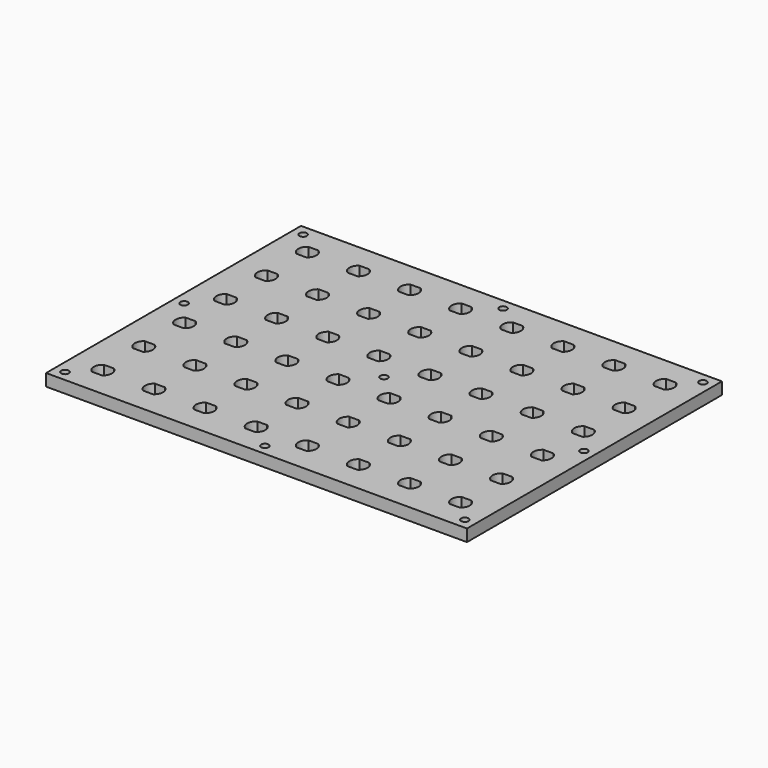
from build123d import *

# Parameters (mm, degrees)
F0_W     = 280
F0_H     = 212
F0_R     = 2.5
F1_DEPTH = 8


with BuildPart() as f1:
    # F0 (on Top) → F1 (new body)
    with BuildSketch(Plane.XY):
        Rectangle(F0_W, F0_H)
        with Locations((-133, -99)):
            Circle(F0_R, mode=Mode.SUBTRACT)
        with BuildLine():
            ThreePointArc((-122.316625, -90), (-125, -85), (-122.316625, -80))
            Line((-122.316625, -80), (-115.683375, -80))
            ThreePointArc((-115.683375, -80), (-113, -85), (-115.683375, -90))
            Line((-115.683375, -90), (-122.316625, -90))
        make_face(mode=Mode.SUBTRACT)
        with BuildLine():
            ThreePointArc((-88.316625, -90), (-91, -85), (-88.316625, -80))
            Line((-88.316625, -80), (-81.683375, -80))
            ThreePointArc((-81.683375, -80), (-79, -85), (-81.683375, -90))
            Line((-81.683375, -90), (-88.316625, -90))
        make_face(mode=Mode.SUBTRACT)
        with BuildLine():
            ThreePointArc((-54.316625, -90), (-57, -85), (-54.316625, -80))
            Line((-54.316625, -80), (-47.683375, -80))
            ThreePointArc((-47.683375, -80), (-45, -85), (-47.683375, -90))
            Line((-47.683375, -90), (-54.316625, -90))
        make_face(mode=Mode.SUBTRACT)
        with BuildLine():
            ThreePointArc((-20.316625, -90), (-23, -85), (-20.316625, -80))
            Line((-20.316625, -80), (-13.683375, -80))
            ThreePointArc((-13.683375, -80), (-11, -85), (-13.683375, -90))
            Line((-13.683375, -90), (-20.316625, -90))
        make_face(mode=Mode.SUBTRACT)
        with BuildLine():
            ThreePointArc((-122.316625, -56), (-125, -51), (-122.316625, -46))
            Line((-122.316625, -46), (-115.683375, -46))
            ThreePointArc((-115.683375, -46), (-113, -51), (-115.683375, -56))
            Line((-115.683375, -56), (-122.316625, -56))
        make_face(mode=Mode.SUBTRACT)
        with BuildLine():
            ThreePointArc((-88.316625, -56), (-91, -51), (-88.316625, -46))
            Line((-88.316625, -46), (-81.683375, -46))
            ThreePointArc((-81.683375, -46), (-79, -51), (-81.683375, -56))
            Line((-81.683375, -56), (-88.316625, -56))
        make_face(mode=Mode.SUBTRACT)
        with BuildLine():
            ThreePointArc((-122.316625, -22), (-125, -17), (-122.316625, -12))
            Line((-122.316625, -12), (-115.683375, -12))
            ThreePointArc((-115.683375, -12), (-113, -17), (-115.683375, -22))
            Line((-115.683375, -22), (-122.316625, -22))
        make_face(mode=Mode.SUBTRACT)
        with BuildLine():
            ThreePointArc((-88.316625, -22), (-91, -17), (-88.316625, -12))
            Line((-88.316625, -12), (-81.683375, -12))
            ThreePointArc((-81.683375, -12), (-79, -17), (-81.683375, -22))
            Line((-81.683375, -22), (-88.316625, -22))
        make_face(mode=Mode.SUBTRACT)
        with BuildLine():
            ThreePointArc((-54.316625, -56), (-57, -51), (-54.316625, -46))
            Line((-54.316625, -46), (-47.683375, -46))
            ThreePointArc((-47.683375, -46), (-45, -51), (-47.683375, -56))
            Line((-47.683375, -56), (-54.316625, -56))
        make_face(mode=Mode.SUBTRACT)
        with BuildLine():
            ThreePointArc((-20.316625, -56), (-23, -51), (-20.316625, -46))
            Line((-20.316625, -46), (-13.683375, -46))
            ThreePointArc((-13.683375, -46), (-11, -51), (-13.683375, -56))
            Line((-13.683375, -56), (-20.316625, -56))
        make_face(mode=Mode.SUBTRACT)
        with BuildLine():
            ThreePointArc((-54.316625, -22), (-57, -17), (-54.316625, -12))
            Line((-54.316625, -12), (-47.683375, -12))
            ThreePointArc((-47.683375, -12), (-45, -17), (-47.683375, -22))
            Line((-47.683375, -22), (-54.316625, -22))
        make_face(mode=Mode.SUBTRACT)
        with BuildLine():
            ThreePointArc((-20.316625, -22), (-23, -17), (-20.316625, -12))
            Line((-20.316625, -12), (-13.683375, -12))
            ThreePointArc((-13.683375, -12), (-11, -17), (-13.683375, -22))
            Line((-13.683375, -22), (-20.316625, -22))
        make_face(mode=Mode.SUBTRACT)
        with Locations((0, -99)):
            Circle(F0_R, mode=Mode.SUBTRACT)
        with BuildLine():
            ThreePointArc((13.683375, -90), (11, -85), (13.683375, -80))
            Line((13.683375, -80), (20.316625, -80))
            ThreePointArc((20.316625, -80), (23, -85), (20.316625, -90))
            Line((20.316625, -90), (13.683375, -90))
        make_face(mode=Mode.SUBTRACT)
        with BuildLine():
            ThreePointArc((47.683375, -90), (45, -85), (47.683375, -80))
            Line((47.683375, -80), (54.316625, -80))
            ThreePointArc((54.316625, -80), (57, -85), (54.316625, -90))
            Line((54.316625, -90), (47.683375, -90))
        make_face(mode=Mode.SUBTRACT)
        with BuildLine():
            ThreePointArc((81.683375, -90), (79, -85), (81.683375, -80))
            Line((81.683375, -80), (88.316625, -80))
            ThreePointArc((88.316625, -80), (91, -85), (88.316625, -90))
            Line((88.316625, -90), (81.683375, -90))
        make_face(mode=Mode.SUBTRACT)
        with Locations((133, -99)):
            Circle(F0_R, mode=Mode.SUBTRACT)
        with BuildLine():
            ThreePointArc((115.683375, -90), (113, -85), (115.683375, -80))
            Line((115.683375, -80), (122.316625, -80))
            ThreePointArc((122.316625, -80), (125, -85), (122.316625, -90))
            Line((122.316625, -90), (115.683375, -90))
        make_face(mode=Mode.SUBTRACT)
        with BuildLine():
            ThreePointArc((13.683375, -56), (11, -51), (13.683375, -46))
            Line((13.683375, -46), (20.316625, -46))
            ThreePointArc((20.316625, -46), (23, -51), (20.316625, -56))
            Line((20.316625, -56), (13.683375, -56))
        make_face(mode=Mode.SUBTRACT)
        with BuildLine():
            ThreePointArc((47.683375, -56), (45, -51), (47.683375, -46))
            Line((47.683375, -46), (54.316625, -46))
            ThreePointArc((54.316625, -46), (57, -51), (54.316625, -56))
            Line((54.316625, -56), (47.683375, -56))
        make_face(mode=Mode.SUBTRACT)
        with BuildLine():
            ThreePointArc((13.683375, -22), (11, -17), (13.683375, -12))
            Line((13.683375, -12), (20.316625, -12))
            ThreePointArc((20.316625, -12), (23, -17), (20.316625, -22))
            Line((20.316625, -22), (13.683375, -22))
        make_face(mode=Mode.SUBTRACT)
        with BuildLine():
            ThreePointArc((47.683375, -22), (45, -17), (47.683375, -12))
            Line((47.683375, -12), (54.316625, -12))
            ThreePointArc((54.316625, -12), (57, -17), (54.316625, -22))
            Line((54.316625, -22), (47.683375, -22))
        make_face(mode=Mode.SUBTRACT)
        with BuildLine():
            ThreePointArc((81.683375, -56), (79, -51), (81.683375, -46))
            Line((81.683375, -46), (88.316625, -46))
            ThreePointArc((88.316625, -46), (91, -51), (88.316625, -56))
            Line((88.316625, -56), (81.683375, -56))
        make_face(mode=Mode.SUBTRACT)
        with BuildLine():
            ThreePointArc((115.683375, -56), (113, -51), (115.683375, -46))
            Line((115.683375, -46), (122.316625, -46))
            ThreePointArc((122.316625, -46), (125, -51), (122.316625, -56))
            Line((122.316625, -56), (115.683375, -56))
        make_face(mode=Mode.SUBTRACT)
        with BuildLine():
            ThreePointArc((81.683375, -22), (79, -17), (81.683375, -12))
            Line((81.683375, -12), (88.316625, -12))
            ThreePointArc((88.316625, -12), (91, -17), (88.316625, -22))
            Line((88.316625, -22), (81.683375, -22))
        make_face(mode=Mode.SUBTRACT)
        with BuildLine():
            ThreePointArc((115.683375, -22), (113, -17), (115.683375, -12))
            Line((115.683375, -12), (122.316625, -12))
            ThreePointArc((122.316625, -12), (125, -17), (122.316625, -22))
            Line((122.316625, -22), (115.683375, -22))
        make_face(mode=Mode.SUBTRACT)
        with Locations((-133, 0)):
            Circle(F0_R, mode=Mode.SUBTRACT)
        with BuildLine():
            ThreePointArc((-122.316625, 12), (-125, 17), (-122.316625, 22))
            Line((-122.316625, 22), (-115.683375, 22))
            ThreePointArc((-115.683375, 22), (-113, 17), (-115.683375, 12))
            Line((-115.683375, 12), (-122.316625, 12))
        make_face(mode=Mode.SUBTRACT)
        with BuildLine():
            ThreePointArc((-88.316625, 12), (-91, 17), (-88.316625, 22))
            Line((-88.316625, 22), (-81.683375, 22))
            ThreePointArc((-81.683375, 22), (-79, 17), (-81.683375, 12))
            Line((-81.683375, 12), (-88.316625, 12))
        make_face(mode=Mode.SUBTRACT)
        with BuildLine():
            ThreePointArc((-122.316625, 46), (-125, 51), (-122.316625, 56))
            Line((-122.316625, 56), (-115.683375, 56))
            ThreePointArc((-115.683375, 56), (-113, 51), (-115.683375, 46))
            Line((-115.683375, 46), (-122.316625, 46))
        make_face(mode=Mode.SUBTRACT)
        with BuildLine():
            ThreePointArc((-88.316625, 46), (-91, 51), (-88.316625, 56))
            Line((-88.316625, 56), (-81.683375, 56))
            ThreePointArc((-81.683375, 56), (-79, 51), (-81.683375, 46))
            Line((-81.683375, 46), (-88.316625, 46))
        make_face(mode=Mode.SUBTRACT)
        with BuildLine():
            ThreePointArc((-54.316625, 12), (-57, 17), (-54.316625, 22))
            Line((-54.316625, 22), (-47.683375, 22))
            ThreePointArc((-47.683375, 22), (-45, 17), (-47.683375, 12))
            Line((-47.683375, 12), (-54.316625, 12))
        make_face(mode=Mode.SUBTRACT)
        with BuildLine():
            ThreePointArc((-20.316625, 12), (-23, 17), (-20.316625, 22))
            Line((-20.316625, 22), (-13.683375, 22))
            ThreePointArc((-13.683375, 22), (-11, 17), (-13.683375, 12))
            Line((-13.683375, 12), (-20.316625, 12))
        make_face(mode=Mode.SUBTRACT)
        with BuildLine():
            ThreePointArc((-54.316625, 46), (-57, 51), (-54.316625, 56))
            Line((-54.316625, 56), (-47.683375, 56))
            ThreePointArc((-47.683375, 56), (-45, 51), (-47.683375, 46))
            Line((-47.683375, 46), (-54.316625, 46))
        make_face(mode=Mode.SUBTRACT)
        with BuildLine():
            ThreePointArc((-20.316625, 46), (-23, 51), (-20.316625, 56))
            Line((-20.316625, 56), (-13.683375, 56))
            ThreePointArc((-13.683375, 56), (-11, 51), (-13.683375, 46))
            Line((-13.683375, 46), (-20.316625, 46))
        make_face(mode=Mode.SUBTRACT)
        with BuildLine():
            ThreePointArc((-122.316625, 80), (-125, 85), (-122.316625, 90))
            Line((-122.316625, 90), (-115.683375, 90))
            ThreePointArc((-115.683375, 90), (-113, 85), (-115.683375, 80))
            Line((-115.683375, 80), (-122.316625, 80))
        make_face(mode=Mode.SUBTRACT)
        with Locations((-133, 99)):
            Circle(F0_R, mode=Mode.SUBTRACT)
        with BuildLine():
            ThreePointArc((-88.316625, 80), (-91, 85), (-88.316625, 90))
            Line((-88.316625, 90), (-81.683375, 90))
            ThreePointArc((-81.683375, 90), (-79, 85), (-81.683375, 80))
            Line((-81.683375, 80), (-88.316625, 80))
        make_face(mode=Mode.SUBTRACT)
        with BuildLine():
            ThreePointArc((-54.316625, 80), (-57, 85), (-54.316625, 90))
            Line((-54.316625, 90), (-47.683375, 90))
            ThreePointArc((-47.683375, 90), (-45, 85), (-47.683375, 80))
            Line((-47.683375, 80), (-54.316625, 80))
        make_face(mode=Mode.SUBTRACT)
        with BuildLine():
            ThreePointArc((-20.316625, 80), (-23, 85), (-20.316625, 90))
            Line((-20.316625, 90), (-13.683375, 90))
            ThreePointArc((-13.683375, 90), (-11, 85), (-13.683375, 80))
            Line((-13.683375, 80), (-20.316625, 80))
        make_face(mode=Mode.SUBTRACT)
        Circle(F0_R, mode=Mode.SUBTRACT)
        with BuildLine():
            ThreePointArc((13.683375, 12), (11, 17), (13.683375, 22))
            Line((13.683375, 22), (20.316625, 22))
            ThreePointArc((20.316625, 22), (23, 17), (20.316625, 12))
            Line((20.316625, 12), (13.683375, 12))
        make_face(mode=Mode.SUBTRACT)
        with BuildLine():
            ThreePointArc((47.683375, 12), (45, 17), (47.683375, 22))
            Line((47.683375, 22), (54.316625, 22))
            ThreePointArc((54.316625, 22), (57, 17), (54.316625, 12))
            Line((54.316625, 12), (47.683375, 12))
        make_face(mode=Mode.SUBTRACT)
        with BuildLine():
            ThreePointArc((13.683375, 46), (11, 51), (13.683375, 56))
            Line((13.683375, 56), (20.316625, 56))
            ThreePointArc((20.316625, 56), (23, 51), (20.316625, 46))
            Line((20.316625, 46), (13.683375, 46))
        make_face(mode=Mode.SUBTRACT)
        with BuildLine():
            ThreePointArc((47.683375, 46), (45, 51), (47.683375, 56))
            Line((47.683375, 56), (54.316625, 56))
            ThreePointArc((54.316625, 56), (57, 51), (54.316625, 46))
            Line((54.316625, 46), (47.683375, 46))
        make_face(mode=Mode.SUBTRACT)
        with BuildLine():
            ThreePointArc((81.683375, 12), (79, 17), (81.683375, 22))
            Line((81.683375, 22), (88.316625, 22))
            ThreePointArc((88.316625, 22), (91, 17), (88.316625, 12))
            Line((88.316625, 12), (81.683375, 12))
        make_face(mode=Mode.SUBTRACT)
        with Locations((133, 0)):
            Circle(F0_R, mode=Mode.SUBTRACT)
        with BuildLine():
            ThreePointArc((115.683375, 12), (113, 17), (115.683375, 22))
            Line((115.683375, 22), (122.316625, 22))
            ThreePointArc((122.316625, 22), (125, 17), (122.316625, 12))
            Line((122.316625, 12), (115.683375, 12))
        make_face(mode=Mode.SUBTRACT)
        with BuildLine():
            ThreePointArc((81.683375, 46), (79, 51), (81.683375, 56))
            Line((81.683375, 56), (88.316625, 56))
            ThreePointArc((88.316625, 56), (91, 51), (88.316625, 46))
            Line((88.316625, 46), (81.683375, 46))
        make_face(mode=Mode.SUBTRACT)
        with BuildLine():
            ThreePointArc((115.683375, 46), (113, 51), (115.683375, 56))
            Line((115.683375, 56), (122.316625, 56))
            ThreePointArc((122.316625, 56), (125, 51), (122.316625, 46))
            Line((122.316625, 46), (115.683375, 46))
        make_face(mode=Mode.SUBTRACT)
        with BuildLine():
            ThreePointArc((13.683375, 80), (11, 85), (13.683375, 90))
            Line((13.683375, 90), (20.316625, 90))
            ThreePointArc((20.316625, 90), (23, 85), (20.316625, 80))
            Line((20.316625, 80), (13.683375, 80))
        make_face(mode=Mode.SUBTRACT)
        with Locations((0, 99)):
            Circle(F0_R, mode=Mode.SUBTRACT)
        with BuildLine():
            ThreePointArc((47.683375, 80), (45, 85), (47.683375, 90))
            Line((47.683375, 90), (54.316625, 90))
            ThreePointArc((54.316625, 90), (57, 85), (54.316625, 80))
            Line((54.316625, 80), (47.683375, 80))
        make_face(mode=Mode.SUBTRACT)
        with BuildLine():
            ThreePointArc((81.683375, 80), (79, 85), (81.683375, 90))
            Line((81.683375, 90), (88.316625, 90))
            ThreePointArc((88.316625, 90), (91, 85), (88.316625, 80))
            Line((88.316625, 80), (81.683375, 80))
        make_face(mode=Mode.SUBTRACT)
        with BuildLine():
            ThreePointArc((115.683375, 80), (113, 85), (115.683375, 90))
            Line((115.683375, 90), (122.316625, 90))
            ThreePointArc((122.316625, 90), (125, 85), (122.316625, 80))
            Line((122.316625, 80), (115.683375, 80))
        make_face(mode=Mode.SUBTRACT)
        with Locations((133, 99)):
            Circle(F0_R, mode=Mode.SUBTRACT)
    extrude(amount=F1_DEPTH)


solid = f1.part
